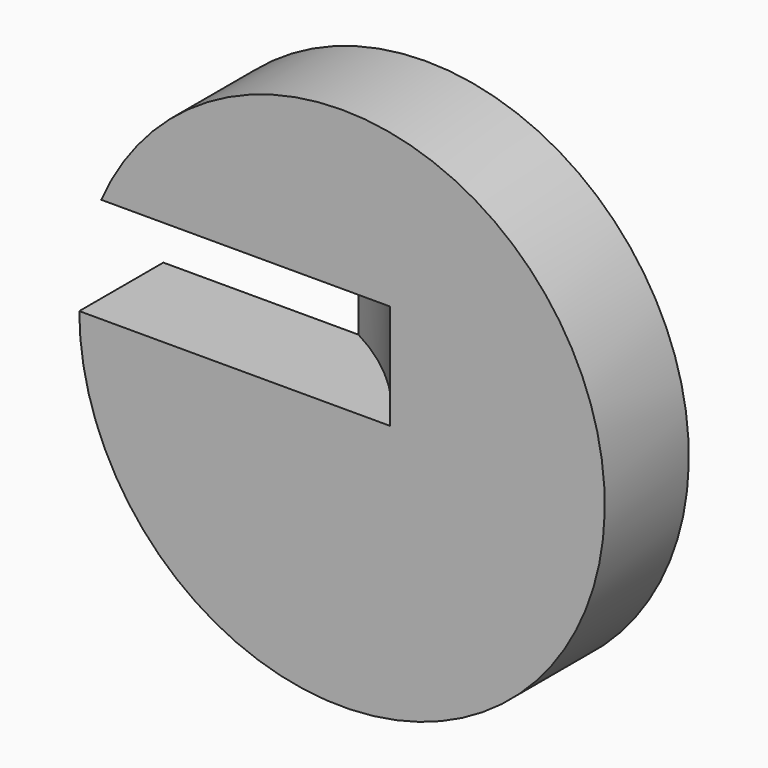
from build123d import *

# Parameters (mm, degrees)
F0_R     = 63.5
F1_DEPTH = 25.4
F2_R     = 76.2
F3_DEPTH = 25.4


with BuildPart() as f1:
    # F0 (on Front) → F1 (new body)
    with BuildSketch(Plane.XZ):
        Circle(F0_R)
    extrude(amount=F1_DEPTH)


with BuildPart() as f3:
    # F2 (on Top) → F3 (new body)
    with BuildSketch(Plane.XY):
        with Locations((-51.968064, -67.365818)):
            Circle(F2_R)
    extrude(amount=F3_DEPTH)


with BuildPart() as f1_1:
    add(f1.part)

    # F4: cut F3
    add(f3.part, mode=Mode.SUBTRACT)


solid = f1_1.part
